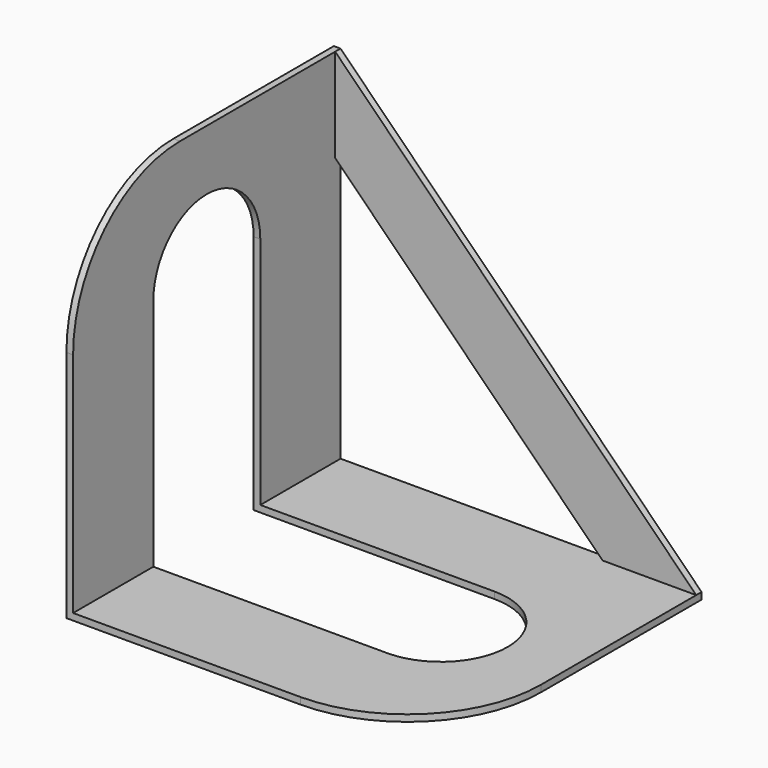
from build123d import *

# Parameters (mm, degrees)
F0_W      = 139.7
F0_H      = 127
F1_DEPTH  = 139.7
F2_W      = 137.16
F2_H      = 137.16
F3_DEPTH  = 124.46
F5_DEPTH  = 25.4
F7_DEPTH  = 25.4
F9_DEPTH  = 25.4
F11_DEPTH = 25.4
F12_R     = 50.8


with BuildPart() as f1:
    # F0 (on Top) → F1 (new body)
    with BuildSketch(Plane.XY):
        with Locations((-69.85, -63.5)):
            Rectangle(F0_W, F0_H)
    extrude(amount=F1_DEPTH)

    # F2 (on face) → F3 (cut)
    with BuildSketch(Plane.XZ.offset(127)):
        with Locations((-68.58, 71.12)):
            Rectangle(F2_W, F2_H)
    extrude(amount=-F3_DEPTH, mode=Mode.SUBTRACT)

    # F4 (on face) → F5 (cut)
    with BuildSketch(Plane.XZ.offset(2.54)):
        Polygon((-6.918556, 178.288981), (-137.16, 139.7), (0, 2.54), (55.803198, 142.750546), align=None)
    extrude(amount=-F5_DEPTH, mode=Mode.SUBTRACT)

    # F6 (on face) → F7 (cut)
    with BuildSketch(Plane.XZ.offset(2.54)):
        Polygon((-137.16, 104.14), (-137.16, 2.54), (-35.56, 2.54), align=None)
    extrude(amount=-F7_DEPTH, mode=Mode.SUBTRACT)

    # F8 (on face) → F9 (cut)
    with BuildSketch(Plane.XY.offset(2.54)):
        with BuildLine():
            Line((-137.16, -38.1), (-137.16, -88.9))
            Line((-137.16, -88.9), (-48.26, -88.9))
            ThreePointArc((-48.26, -88.9), (-22.86, -63.5), (-48.26, -38.1))
            Line((-48.26, -38.1), (-137.16, -38.1))
        make_face()
    extrude(amount=-F9_DEPTH, mode=Mode.SUBTRACT)

    # F10 (on face) → F11 (cut)
    with BuildSketch(Plane.YZ.offset(-137.16)):
        with BuildLine():
            Line((-38.1, 0), (-38.1, 2.54))
            Line((-38.1, 2.54), (-38.1, 91.44))
            ThreePointArc((-38.1, 91.44), (-63.5, 116.84), (-88.9, 91.44))
            Line((-88.9, 91.44), (-88.9, 2.54))
            Line((-88.9, 2.54), (-88.9, 0))
            Line((-88.9, 0), (-38.1, 0))
        make_face()
    extrude(amount=-F11_DEPTH, mode=Mode.SUBTRACT)

    # F12
    f12_edges = [f1.edges().sort_by_distance(p)[0] for p in [
        (0, -127, 1.27),
        (-138.43, -127, 139.7),
    ]]
    fillet(f12_edges, radius=F12_R)


solid = f1.part
